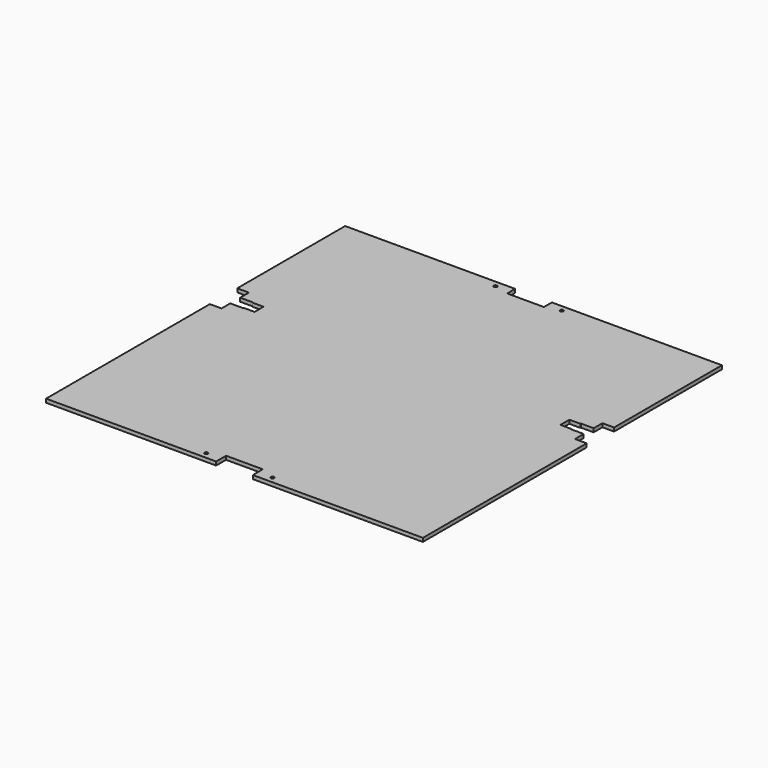
from build123d import *

# Parameters (mm, degrees)
F1_DEPTH = 6
F2_R     = 2.75
F3_DEPTH = 6


with BuildPart() as f1:
    # F0 (on Top) → F1 (new body)
    with BuildSketch(Plane.XY):
        Polygon((30.2, -307.5), (310, -307.5), (310, 29.3), (290.8, 29.3), (290.8, 47.3), (269.6, 47.3), (269.6, 48.3), (251.6, 48.3), (251.6, 66.7), (269.6, 66.7), (269.6, 67.7), (290.8, 67.7), (290.8, 85.7), (310, 85.7), (310, 307.5), (30.2, 307.5), (30.2, 291.1), (-30.2, 291.1), (-30.2, 307.5), (-310, 307.5), (-310, 85.7), (-290.8, 85.7), (-290.8, 67.7), (-269.6, 67.7), (-269.6, 66.7), (-251.6, 66.7), (-251.6, 48.3), (-269.6, 48.3), (-269.6, 47.3), (-290.8, 47.3), (-290.8, 29.3), (-310, 29.3), (-310, -307.5), (-30.2, -307.5), (-30.2, -287.1), (30.2, -287.1), align=None)
    extrude(amount=F1_DEPTH)

    # F2 (on face) → F3 (cut, through all)
    with BuildSketch(Plane.XY.offset(6)):
        with Locations((-54.5, 297.5)):
            Circle(F2_R)
        with Locations((54.5, 297.5)):
            Circle(F2_R)
        with Locations((-54.5, -297.5)):
            Circle(F2_R)
        with Locations((54.5, -297.5)):
            Circle(F2_R)
    extrude(amount=-F3_DEPTH, mode=Mode.SUBTRACT)


solid = f1.part
